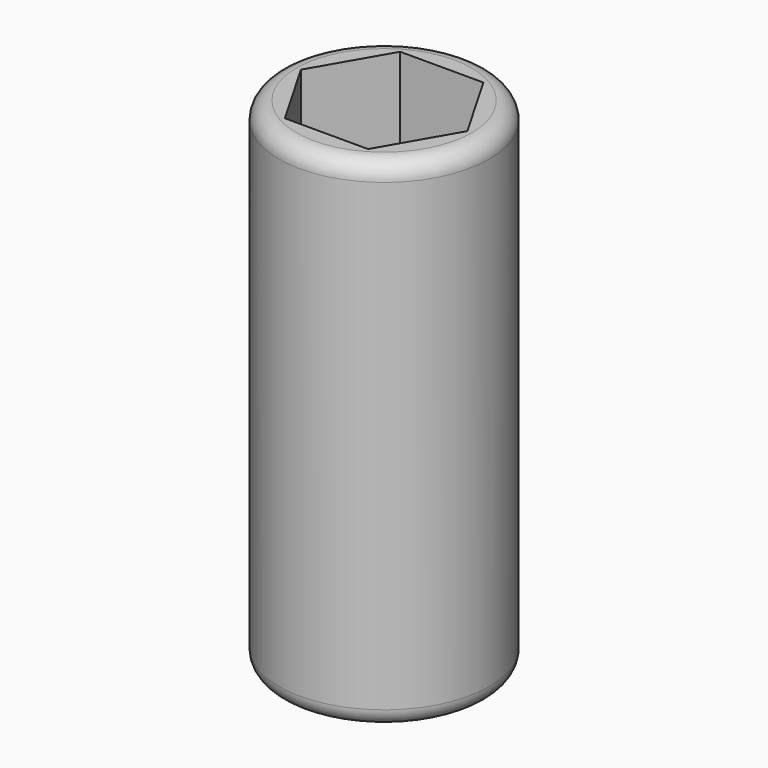
from build123d import *

# Parameters (mm, degrees)
F0_R     = 15.24
F0_W     = 10.16
F0_H     = 10.16
F1_DEPTH = 8.89
F2_R     = 15.24
F3_DEPTH = 63.5
F4_R     = 1.27
F5_R     = 2.54


with BuildPart() as f1:
    # F0 (on Top) → F1 (new body)
    with BuildSketch(Plane.XY):
        Circle(F0_R)
        Rectangle(F0_W, F0_H, mode=Mode.SUBTRACT)
    extrude(amount=F1_DEPTH)

    # F2 (on face) → F3 (join)
    with BuildSketch(Plane.XY.offset(8.89)):
        Circle(F2_R)
        Polygon((-12.065, 0), (-6.0325, 10.448596), (6.0325, 10.448596), (12.065, 0), (6.0325, -10.448596), (-6.0325, -10.448596), align=None, mode=Mode.SUBTRACT)
    extrude(amount=F3_DEPTH)

    # F4
    f4_edges = [f1.edges().sort_by_distance(p)[0] for p in [
        (-5.08, -5.08, 4.445),
        (-5.08, 5.08, 4.445),
        (5.08, -5.08, 4.445),
        (5.08, 5.08, 4.445),
    ]]
    fillet(f4_edges, radius=F4_R)

    # F5
    f5_edges = [f1.edges().sort_by_distance(p)[0] for p in [
        (-15.24, 0, 0),
        (-15.24, 0, 72.39),
    ]]
    fillet(f5_edges, radius=F5_R)


solid = f1.part
